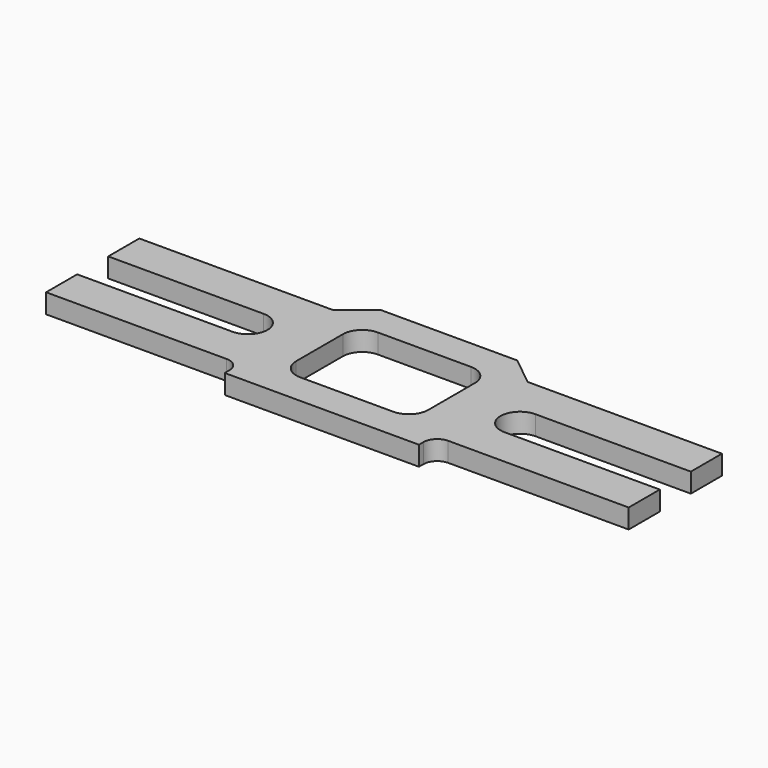
from build123d import *

# Parameters (mm, degrees)
F1_DEPTH = 1


with BuildPart() as f1:
    # F0 (on Top) → F1 (new body)
    with BuildSketch(Plane.XY):
        with BuildLine():
            ThreePointArc((0, -2), (-1, -1), (0, 0))
            Line((0, 0), (8, 0))
            Line((8, 0), (8, 2))
            Line((8, 2), (-2, 2))
            Line((-2, 2), (-3.5, 3.2))
            Line((-3.5, 3.2), (-10.5, 3.2))
            Line((-10.5, 3.2), (-12, 2))
            Line((-12, 2), (-22, 2))
            Line((-22, 2), (-22, 0))
            Line((-22, 0), (-14, 0))
            ThreePointArc((-14, 0), (-13, -1), (-14, -2))
            Line((-14, -2), (-22, -2))
            Line((-22, -2), (-22, -4))
            Line((-22, -4), (-12.707107, -4))
            ThreePointArc((-12.707107, -4), (-12.207107, -4.207107), (-12, -4.707107))
            Line((-12, -4.707107), (-12, -5))
            Line((-12, -5), (-2, -5))
            Line((-2, -5), (-2, -4.707107))
            ThreePointArc((-2, -4.707107), (-1.792893, -4.207107), (-1.292893, -4))
            Line((-1.292893, -4), (8, -4))
            Line((8, -4), (8, -2))
            Line((8, -2), (0, -2))
        make_face()
        with BuildLine():
            Line((-4.6, -3.4), (-9.4, -3.4))
            ThreePointArc((-9.4, -3.4), (-10.107107, -3.107107), (-10.4, -2.4))
            Line((-10.4, -2.4), (-10.4, 0.6))
            ThreePointArc((-10.4, 0.6), (-10.107107, 1.307107), (-9.4, 1.6))
            Line((-9.4, 1.6), (-4.6, 1.6))
            ThreePointArc((-4.6, 1.6), (-3.892893, 1.307107), (-3.6, 0.6))
            Line((-3.6, 0.6), (-3.6, -2.4))
            ThreePointArc((-3.6, -2.4), (-3.892893, -3.107107), (-4.6, -3.4))
        make_face(mode=Mode.SUBTRACT)
    extrude(amount=F1_DEPTH)


solid = f1.part
